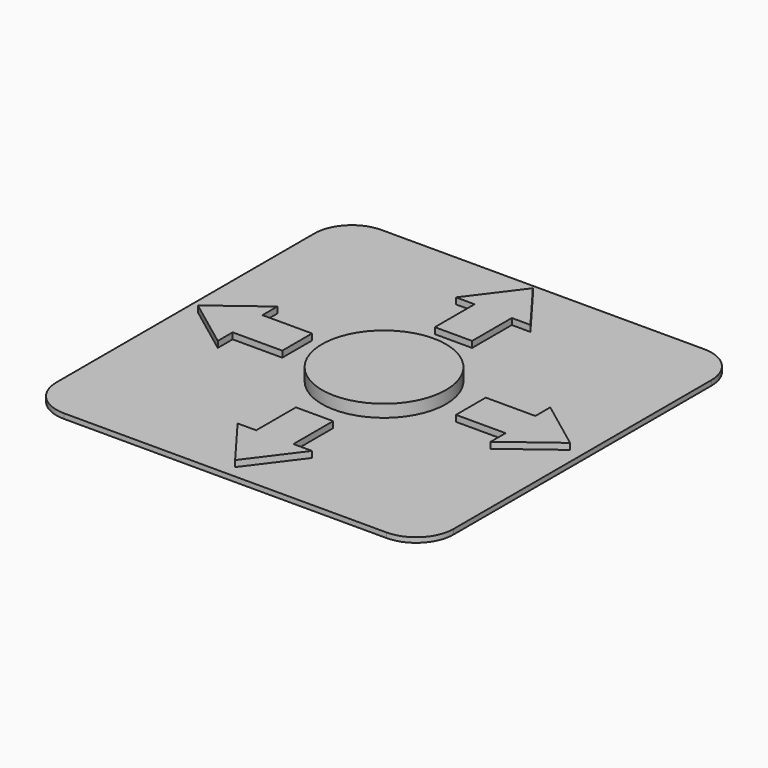
from build123d import *

# Parameters (mm, degrees)
SKETCH032_W  = 32
SKETCH032_H  = 32
PAD014_DEPTH = 0.4
PAD015_DEPTH = 0.5
PAD016_DEPTH = 0.5
SKETCH035_R  = 5
PAD017_DEPTH = 1
FILLET005_R  = 3


with BuildPart() as part:
    # Sketch032 → Pad014 (new body)
    with BuildSketch(Plane.XY):
        with Locations((-89.080673, 16)):
            Rectangle(SKETCH032_W, SKETCH032_H)
    extrude(amount=PAD014_DEPTH)

    # Sketch033 (on Face6 of Pad014) → Pad015 (join)
    with BuildSketch(Plane.XY.offset(0.4)):
        Polygon((-89.080673, 31), (-86.080673, 27), (-87.580673, 27), (-87.580673, 23), (-90.580673, 23), (-90.580673, 27), (-92.080673, 27), align=None)
        Polygon((-89.080673, 1), (-86.080673, 5), (-87.580673, 5), (-87.580673, 9), (-90.580673, 9), (-90.580673, 5), (-92.080673, 5), align=None)
    extrude(amount=PAD015_DEPTH)

    # Sketch034 (on Face5 of Pad015) → Pad016 (join)
    with BuildSketch(Plane.XY.offset(0.4)):
        Polygon((-74.080673, 16), (-78.080673, 13), (-78.080673, 14.5), (-82.080673, 14.5), (-82.080673, 17.5), (-78.080673, 17.5), (-78.080673, 19), align=None)
        Polygon((-104.080673, 16), (-100.080673, 13), (-100.080673, 14.5), (-96.080673, 14.5), (-96.080673, 17.5), (-100.080673, 17.5), (-100.080673, 19), align=None)
    extrude(amount=PAD016_DEPTH)

    # Sketch035 (on Face5 of Pad016) → Pad017 (join)
    with BuildSketch(Plane.XY.offset(0.4)):
        with Locations((-89.080673, 16)):
            Circle(SKETCH035_R)
    extrude(amount=PAD017_DEPTH)

    # Fillet005
    fillet005_edges = [part.edges().sort_by_distance(p)[0] for p in [
        (-105.080673, 0, 0.2),
        (-105.080673, 32, 0.2),
        (-73.080673, 32, 0.2),
        (-73.080673, 0, 0.2),
    ]]
    fillet(fillet005_edges, radius=FILLET005_R)


solid = part.part
